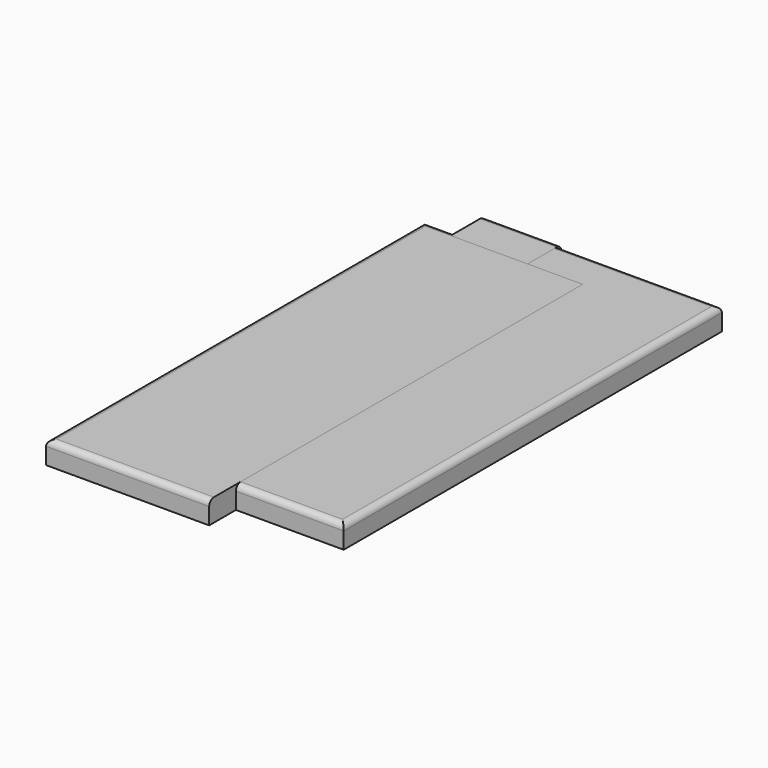
from build123d import *

# Parameters (mm, degrees)
F2_W     = 138
F2_H     = 400
F3_DEPTH = 19
F0_W     = 65
F0_H     = 419.8724787245
F1_W     = 138
F1_H     = 400
F4_R     = 5
F4_2_R   = 5
F4_3_R   = 5


with BuildPart() as f3:
    # F2 (on Top) → F3 (new body)
    with BuildSketch(Plane.XY):
        with Locations((22.204997018, 9.0895046223)):
            Rectangle(F2_W, F2_H)
    extrude(amount=F3_DEPTH)

    # F4#3
    f4_3_edges = [f3.edges().sort_by_distance(p)[0] for p in [
        (22.204997, -190.910495, 19),
        (91.204997, 9.089505, 19),
        (22.204997, 209.089505, 19),
    ]]
    fillet(f4_3_edges, radius=F4_3_R)


with BuildPart() as f3b:
    # F0 (on Top) → F3, piece 2 (new body)
    with BuildSketch(Plane.XY):
        with Locations((-79.0824504346, 1.7623323947)):
            Rectangle(F0_W, F0_H)
    extrude(amount=F3_DEPTH)

    # F4#2
    f4_2_edges = [f3b.edges().sort_by_distance(p)[0] for p in [
        (-79.08245, -208.173907, 19),
        (-79.08245, 211.698572, 19),
    ]]
    fillet(f4_2_edges, radius=F4_2_R)


with BuildPart() as f3c:
    # F1 (on Top) → F3, piece 3 (new body)
    with BuildSketch(Plane.XY):
        with Locations((-69, -19.1852647855)):
            Rectangle(F1_W, F1_H)
    extrude(amount=F3_DEPTH)

    # F4
    f4_edges = [f3c.edges().sort_by_distance(p)[0] for p in [
        (-138, -19.185265, 19),
        (-69, -219.185265, 19),
        (-69, 180.814735, 19),
    ]]
    fillet(f4_edges, radius=F4_R)


solid = Compound([f3.part, f3b.part, f3c.part])
